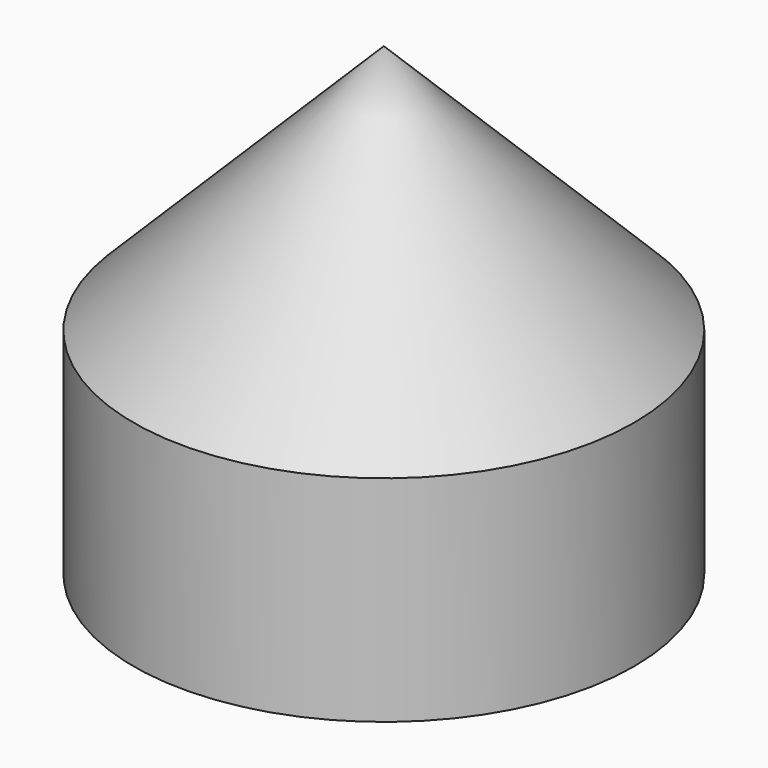
from build123d import *

# Parameters (mm, degrees)
F3_D           = 6
F3_DEPTH       = 5.5
F3_CSINK_D     = 7
F3_CSINK_ANGLE = 90
F3_TIP         = 1.8025818571


with BuildPart() as f1:
    # F0 (on Front) → F1 (revolve)
    with BuildSketch(Plane.XZ):
        Polygon((7, 6), (0, 13), (0, 0), (7, 0), align=None)
    revolve(axis=Axis((0, 0, 5.6743063033), (0, 0, -1)))

    # F3
    with Locations(Plane(origin=(0, 0, 0), x_dir=(1, 0, 0), z_dir=(0, 0, -1))):
        with Locations((0, 0)):
            CounterSinkHole(F3_D / 2, F3_CSINK_D / 2, depth=F3_DEPTH, counter_sink_angle=F3_CSINK_ANGLE)
            with Locations((0, 0, -(F3_DEPTH + F3_TIP / 2))):  # 118° drill point
                Cone(0, F3_D / 2, F3_TIP, mode=Mode.SUBTRACT)


solid = f1.part
